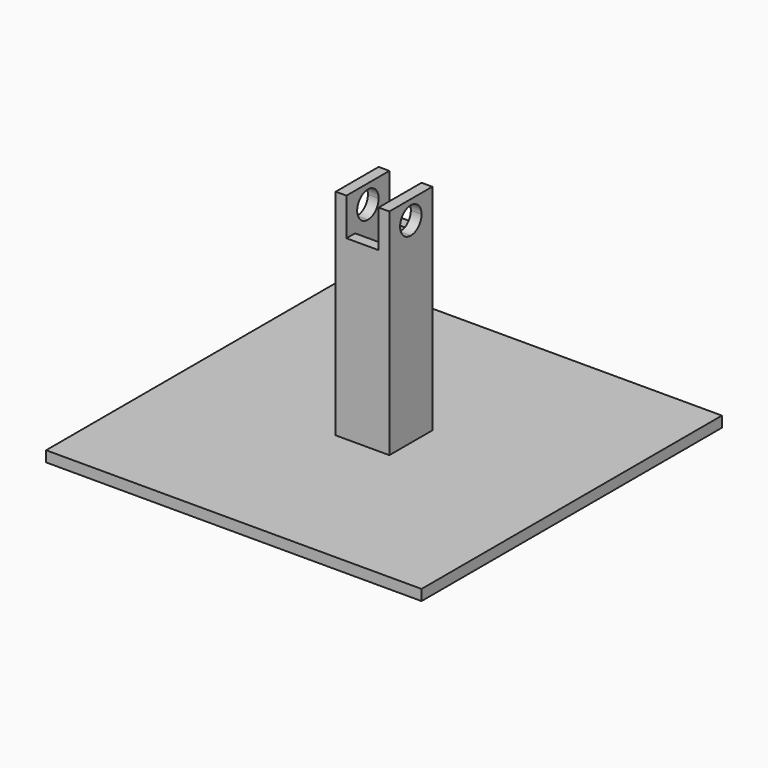
from build123d import *

# Parameters (mm, degrees)
F0_W     = 70
F0_H     = 70
F0_W_2   = 10
F0_H_2   = 10
F0_W_3   = 6
F0_H_3   = 6
F1_DEPTH = 2
F2_DEPTH = 35
F4_DEPTH = 10
F5_W     = 6
F5_H     = 2
F5_H_2   = 6
F6_DEPTH = 7


with BuildPart() as f1:
    # F0 (on Top) → F1 (new body)
    with BuildSketch(Plane.XY):
        Rectangle(F0_W, F0_H)
        Rectangle(F0_W_2, F0_H_2, mode=Mode.SUBTRACT)
        Rectangle(F0_W_2, F0_H_2)
        Rectangle(F0_W_3, F0_H_3, mode=Mode.SUBTRACT)
        Rectangle(F0_W_3, F0_H_3)
    extrude(amount=F1_DEPTH)

    # F0 (on Top) → F2 (join)
    with BuildSketch(Plane.XY):
        Rectangle(F0_W_2, F0_H_2)
        Rectangle(F0_W_3, F0_H_3, mode=Mode.SUBTRACT)
    extrude(amount=F2_DEPTH)

    # F3 (on face) → F4 (join)
    with BuildSketch(Plane.YZ.offset(5)):
        with BuildLine():
            Line((-5, 42), (-5, 35))
            Line((-5, 35), (0, 35))
            Line((0, 35), (0, 36))
            ThreePointArc((0, 36), (-2.5, 38.5), (0, 41))
            Line((0, 41), (0, 42))
            Line((0, 42), (-5, 42))
        make_face()
        with BuildLine():
            Line((0, 36), (0, 35))
            Line((0, 35), (5, 35))
            Line((5, 35), (5, 42))
            Line((5, 42), (0, 42))
            Line((0, 42), (0, 41))
            ThreePointArc((0, 41), (1.767766953, 40.267766953), (2.5, 38.5))
            ThreePointArc((2.5, 38.5), (1.767766953, 36.732233047), (0, 36))
        make_face()
    extrude(amount=-F4_DEPTH)

    # F5 (on face) → F6 (cut)
    with BuildSketch(Plane.XY.offset(42)):
        with Locations((0, -4)):
            Rectangle(F5_W, F5_H)
        Rectangle(F5_W, F5_H_2)
        with Locations((0, 4)):
            Rectangle(F5_W, F5_H)
    extrude(amount=-F6_DEPTH, mode=Mode.SUBTRACT)


solid = f1.part
